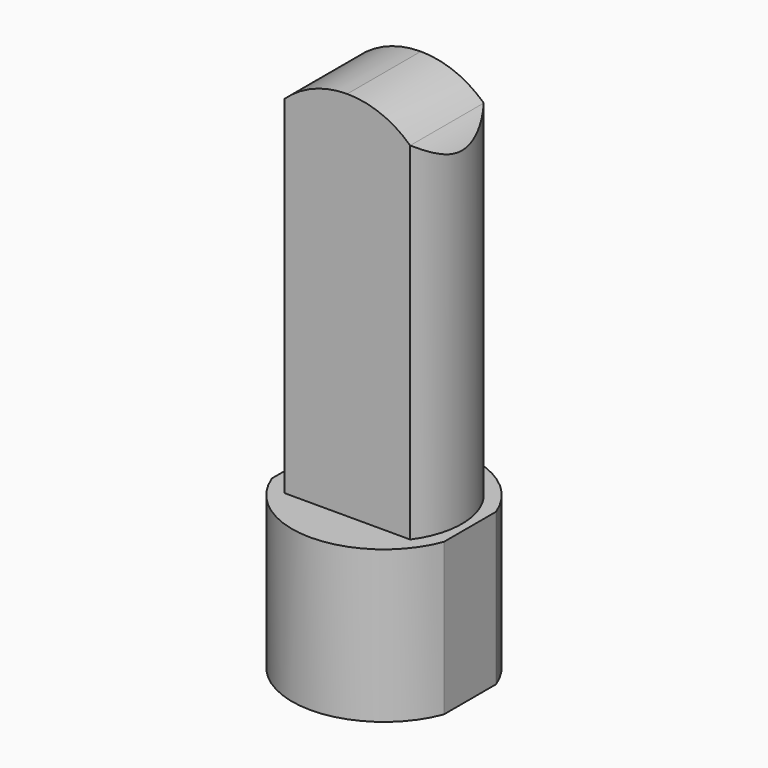
from build123d import *

# Parameters (mm, degrees)
F1_DEPTH = 38
F2_R     = 20.15
F3_DEPTH = 26
F5_DEPTH = 93
F7_DEPTH = 34.501


with BuildPart() as f1:
    # F0 (on Top) → F1 (new body)
    with BuildSketch(Plane.XY):
        with BuildLine():
            Line((21.5, -8.1700673192), (21.5, 8.1700673192))
            ThreePointArc((21.5, 8.1700673192), (0, 23), (-21.5, 8.1700673192))
            Line((-21.5, 8.1700673192), (-21.5, -8.1700673192))
            ThreePointArc((-21.5, -8.1700673192), (0, -23), (21.5, -8.1700673192))
        make_face()
    extrude(amount=F1_DEPTH)

    # F2 (on face) → F3 (cut)
    with BuildSketch(Plane(origin=(0, 0, 0), x_dir=(1, 0, 0), z_dir=(0, 0, -1))):
        Circle(F2_R)
    extrude(amount=-F3_DEPTH, mode=Mode.SUBTRACT)

    # F4 (on face) → F5 (join)
    with BuildSketch(Plane.XY.offset(38)):
        with BuildLine():
            Line((0, -11.5), (15.748015748, -11.5))
            ThreePointArc((15.748015748, -11.5), (19.5, 0), (15.748015748, 11.5))
            Line((15.748015748, 11.5), (0, 11.5))
            Line((0, 11.5), (-15.748015748, 11.5))
            ThreePointArc((-15.748015748, 11.5), (-19.5, 0), (-15.748015748, -11.5))
            Line((-15.748015748, -11.5), (0, -11.5))
        make_face()
    extrude(amount=F5_DEPTH)

    # F6 (on face) → F7 (cut, through all)
    with BuildSketch(Plane(origin=(0, 11.5, 0), x_dir=(-1, 0, 0), z_dir=(0, 1, 0))):
        with BuildLine():
            ThreePointArc((15.748015748, 124.7630546142), (20.7050008548, 118.015135526), (22.9180405225, 109.9399532494))
            Line((22.9180405225, 109.9399532494), (59.4968311489, 143.3250755072))
            Line((59.4968311489, 143.3250755072), (-46.497952193, 143.3250755072))
            Line((-46.497952193, 143.3250755072), (-22.5929407351, 112.3080191436))
            ThreePointArc((-22.5929407351, 112.3080191436), (-20.1566171059, 119.0774900969), (-15.748015748, 124.7630546142))
            Line((-15.748015748, 124.7630546142), (-15.748015748, 131))
            Line((-15.748015748, 131), (0, 131))
            Line((0, 131), (15.748015748, 131))
            Line((15.748015748, 131), (15.748015748, 124.7630546142))
        make_face()
        with BuildLine():
            ThreePointArc((0, 131), (8.4690537805, 129.3839923322), (15.748015748, 124.7630546142))
            Line((15.748015748, 124.7630546142), (15.748015748, 131))
            Line((15.748015748, 131), (0, 131))
        make_face()
        with BuildLine():
            ThreePointArc((-15.748015748, 124.7630546142), (-8.4690537805, 129.3839923322), (0, 131))
            Line((0, 131), (-15.748015748, 131))
            Line((-15.748015748, 131), (-15.748015748, 124.7630546142))
        make_face()
    extrude(amount=-F7_DEPTH, mode=Mode.SUBTRACT)


solid = f1.part
